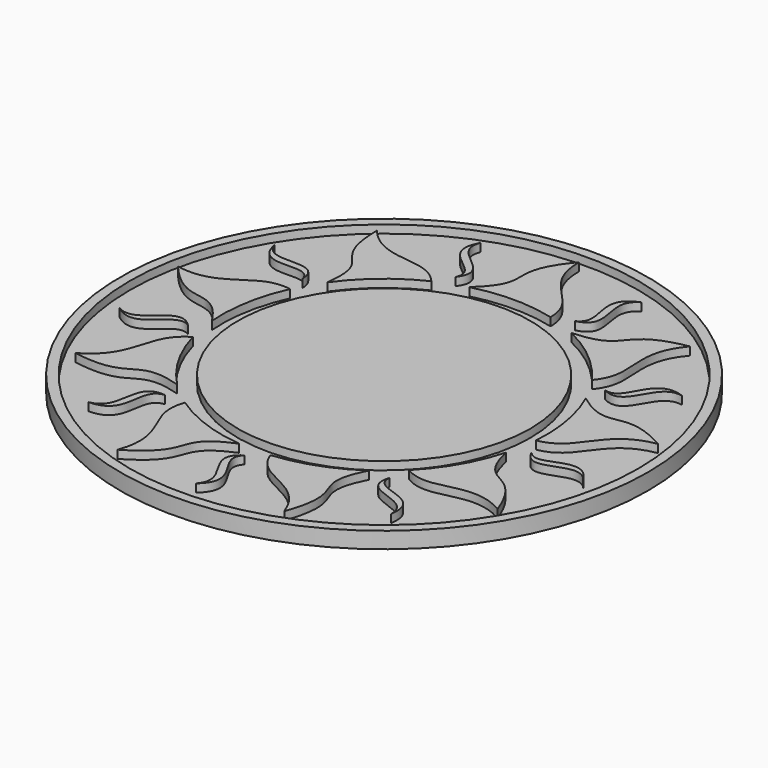
from build123d import *

# Parameters (mm, degrees)
F0_R     = 32.5
F1_DEPTH = 2
F2_R     = 31.3
F2_R_2   = 18
F3_DEPTH = 1
F5_DEPTH = 1
F6_COUNT = 9


with BuildPart() as f1:
    # F0 (on Top) → F1 (new body)
    with BuildSketch(Plane.XY):
        Circle(F0_R)
    extrude(amount=F1_DEPTH)

    # F2 (on face) → F3 (cut)
    with BuildSketch(Plane.XY.offset(2)):
        Circle(F2_R)
        Circle(F2_R_2, mode=Mode.SUBTRACT)
    extrude(amount=-F3_DEPTH, mode=Mode.SUBTRACT)

    # F4 (on face) → F5 (join, through all)
    with BuildSketch(Plane.XY.offset(1)):
        with BuildLine():
            ThreePointArc((-5, 19.364916731), (0, 20), (5, 19.364916731))
            add(Edge.make_bspline(
                [(0, 30), (0, 24), (5, 24), (5, 19.364916731)],
                knots=[0, 0, 0, 0, 11.7518082072, 11.7518082072, 11.7518082072, 11.7518082072], degree=3))
            add(Edge.make_bspline(
                [(-5, 19.364916731), (0, 24), (-5, 24), (0, 30)],
                knots=[0, 0, 0, 0, 11.7518082072, 11.7518082072, 11.7518082072, 11.7518082072], degree=3))
        make_face()
        with BuildLine():
            add(Edge.make_bspline(
                [(9.9131672787, 27.2362032534), (6.7328927107, 25.4915188998), (11.3224480301, 21.147036925), (7.3497492192, 20.1932700184)],
                knots=[0, 0, 0, 0, 7.4949330017, 7.4949330017, 7.4949330017, 7.4949330017], degree=3))
            add(Edge.make_bspline(
                [(9.9131672787, 27.2362032534), (5.5151497945, 25.5608577281), (10.0525226444, 21.4589480311), (7.3497492192, 20.1932700184)],
                knots=[0, 0, 0, 0, 7.4949330017, 7.4949330017, 7.4949330017, 7.4949330017], degree=3))
        make_face()
    extrude(amount=F5_DEPTH)

    # F6: F1 ×9 about axis
    f6_axis = Axis((0, 0, 0), (0, 0, -1))


with BuildPart() as f1_1:
    add(f1.part)
    for i in range(1, F6_COUNT):
        add(f1.part.rotate(f6_axis, i * 360 / F6_COUNT))


solid = f1_1.part
